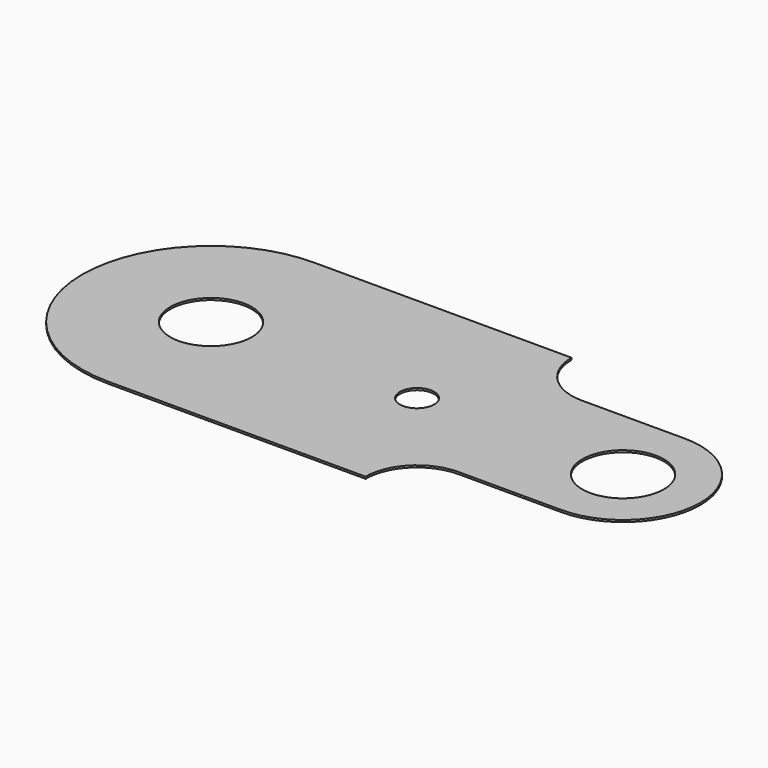
from build123d import *

# Parameters (mm, degrees)
F1_R     = 9.5
F1_R_2   = 4
F2_DEPTH = 0.45946


with BuildPart() as f2:
    # F1 (on Top) → F2 (new body)
    with BuildSketch(Plane.XY):
        with BuildLine():
            Line((60, 30), (0, 30))
            ThreePointArc((0, 30), (-21.213203, 21.213203), (-30, 0))
            ThreePointArc((-30, 0), (-21.213203, -21.213203), (0, -30))
            Line((0, -30), (60, -30))
            ThreePointArc((60, -30), (63.514719, -21.514719), (72, -18))
            Line((72, -18), (96, -18))
            ThreePointArc((96, -18), (108.727922, -12.727922), (114, 0))
            ThreePointArc((114, 0), (108.727922, 12.727922), (96, 18))
            Line((96, 18), (72, 18))
            ThreePointArc((72, 18), (63.514719, 21.514719), (60, 30))
        make_face()
        Circle(F1_R, mode=Mode.SUBTRACT)
        with Locations((48, 0)):
            Circle(F1_R_2, mode=Mode.SUBTRACT)
        with Locations((96, 0)):
            Circle(F1_R, mode=Mode.SUBTRACT)
    extrude(amount=F2_DEPTH)


solid = f2.part
